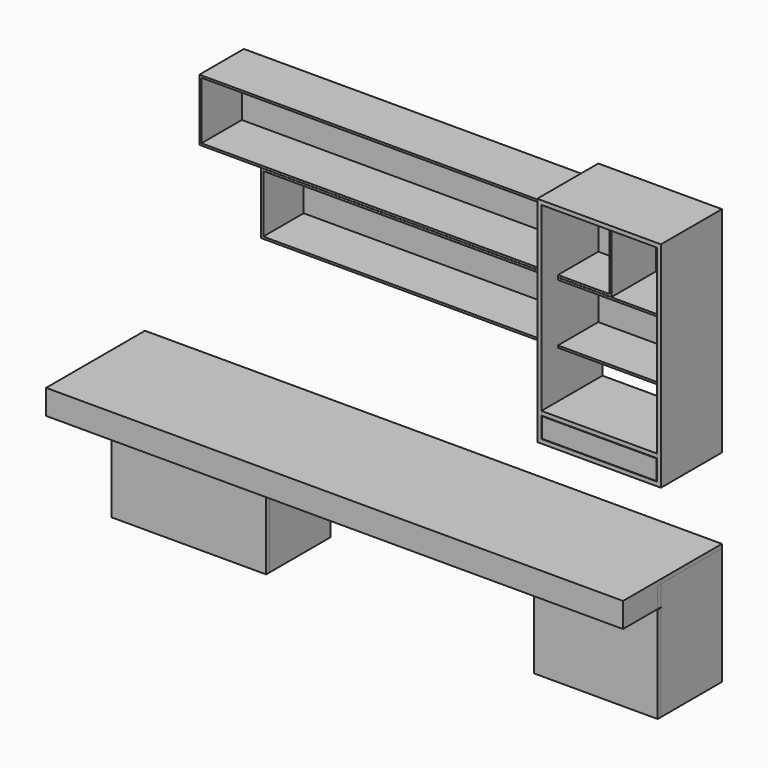
from build123d import *

# Parameters (mm, degrees)
F2_W      = 2800
F2_H      = 600
F3_DEPTH  = 20
F5_DEPTH  = 100
F6_W      = 750
F6_H      = 570
F6_W_2    = 710
F6_H_2    = 530
F7_DEPTH  = 370
F6_W_3    = 600
F6_W_4    = 560
F8_W      = 750
F8_H      = 100
F9_DEPTH  = 20
F8_W_2    = 600
F8_H_2    = 467
F10_W     = 2000
F10_H     = 300
F10_W_2   = 1980
F10_H_2   = 280
F11_DEPTH = 270
F12_W     = 1980
F12_H     = 280
F13_DEPTH = 25
F14_W     = 600
F14_H     = 1040
F14_W_2   = 560
F14_H_2   = 1000
F15_DEPTH = 370
F16_W     = 370
F16_H     = 20
F17_DEPTH = 560
F18_W     = 556
F18_H     = 96
F19_DEPTH = 20


with BuildPart() as f3:
    # F2 (on plane+point) → F3 (new body)
    with BuildSketch(Plane.XY.offset(770)):
        with Locations((0, -300)):
            Rectangle(F2_W, F2_H)
    extrude(amount=F3_DEPTH)

    # F4 (on face) → F5 (join)
    with BuildSketch(Plane(origin=(0, 0, 770), x_dir=(1, 0, 0), z_dir=(0, 0, -1))):
        Polygon((1400, 600), (-1400, 600), (-1400, 0), (-1380, 0), (-1380, 580), (1380, 580), (1380, 0), (1400, 0), align=None)
    extrude(amount=F5_DEPTH)


with BuildPart() as f7:
    # F6 (on Front) → F7 (new body)
    with BuildSketch(Plane.XZ):
        with Locations((-875, 485)):
            Rectangle(F6_W, F6_H)
        with Locations((-875, 485)):
            Rectangle(F6_W_2, F6_H_2, mode=Mode.SUBTRACT)
    extrude(amount=F7_DEPTH)


with BuildPart() as f7b:
    # F6 (on Front) → F7, piece 2 (new body)
    with BuildSketch(Plane.XZ):
        with Locations((1100, 485)):
            Rectangle(F6_W_3, F6_H)
        with Locations((1100, 485)):
            Rectangle(F6_W_4, F6_H_2, mode=Mode.SUBTRACT)
    extrude(amount=F7_DEPTH)


with BuildPart() as f9:
    # F8 (on face) → F9 (new body)
    with BuildSketch(Plane.XZ.offset(370)):
        with Locations((-875, 720)):
            Rectangle(F8_W, F8_H)
    extrude(amount=F9_DEPTH)


with BuildPart() as f9b:
    # F8 (on face) → F9, piece 2 (new body)
    with BuildSketch(Plane.XZ.offset(370)):
        with Locations((1100, 720)):
            Rectangle(F8_W_2, F8_H)
    extrude(amount=F9_DEPTH)


with BuildPart() as f9c:
    # F8 (on face) → F9, piece 3 (new body)
    with BuildSketch(Plane.XZ.offset(370)):
        with Locations((-875, 433.5)):
            Rectangle(F8_W, F8_H_2)
    extrude(amount=F9_DEPTH)


with BuildPart() as f9d:
    # F8 (on face) → F9, piece 4 (new body)
    with BuildSketch(Plane.XZ.offset(370)):
        with Locations((1100, 433.5)):
            Rectangle(F8_W_2, F8_H_2)
    extrude(amount=F9_DEPTH)


with BuildPart() as f11:
    # F10 (on face) → F11 (new body)
    with BuildSketch(Plane.XZ):
        with Locations((80, 2000)):
            Rectangle(F10_W, F10_H)
        with Locations((80, 2000)):
            Rectangle(F10_W_2, F10_H_2, mode=Mode.SUBTRACT)
    extrude(amount=F11_DEPTH)


with BuildPart() as f11b:
    # F10 (on face) → F11, piece 2 (new body)
    with BuildSketch(Plane.XZ):
        with Locations((380, 1699)):
            Rectangle(F10_W, F10_H)
        with Locations((380, 1699)):
            Rectangle(F10_W_2, F10_H_2, mode=Mode.SUBTRACT)
    extrude(amount=F11_DEPTH)


with BuildPart() as f13:
    # F12 (on Front) → F13 (new body)
    with BuildSketch(Plane.XZ):
        with Locations((80, 2000)):
            Rectangle(F12_W, F12_H)
    extrude(amount=F13_DEPTH)


with BuildPart() as f13b:
    # F12 (on Front) → F13, piece 2 (new body)
    with BuildSketch(Plane.XZ):
        with Locations((380, 1699)):
            Rectangle(F12_W, F12_H)
    extrude(amount=F13_DEPTH)


with BuildPart() as f15:
    # F14 (on Front) → F15 (new body)
    with BuildSketch(Plane.XZ):
        with Locations((1100, 1700)):
            Rectangle(F14_W, F14_H)
        with Locations((1100, 1700)):
            Rectangle(F14_W_2, F14_H_2, mode=Mode.SUBTRACT)
    extrude(amount=F15_DEPTH)


with BuildPart() as f17:
    # F16 (on face) → F17 (new body, through all)
    with BuildSketch(Plane.YZ.offset(820)):
        with Locations((-185, 1310)):
            Rectangle(F16_W, F16_H)
    extrude(amount=F17_DEPTH)


with BuildPart() as f19:
    # F18 (on face) → F19 (new body)
    with BuildSketch(Plane.XZ.offset(370)):
        with Locations((1100, 1250)):
            Rectangle(F18_W, F18_H)
    extrude(amount=-F19_DEPTH)


solid = Compound([f3.part, f7.part, f7b.part, f9.part, f9b.part, f9c.part, f9d.part, f11.part, f11b.part, f13.part, f13b.part, f15.part, f17.part, f19.part])
